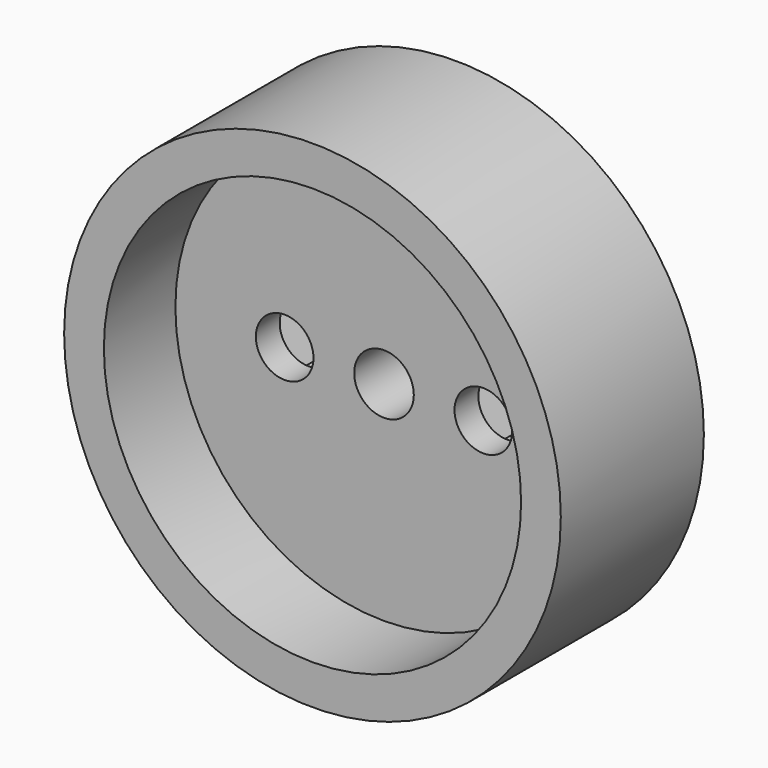
from build123d import *

# Parameters (mm, degrees)
F0_R     = 10.5
F0_R_2   = 1.5
F1_DEPTH = 4.5
F0_R_3   = 12.5
F2_DEPTH = 9
F4_DEPTH = 4.5
F3_R     = 1.45
F5_DEPTH = 4.5
F6_DEPTH = 3


with BuildPart() as f1:
    # F0 (on Front) → F1 (new body)
    with BuildSketch(Plane.XZ):
        Circle(F0_R)
        Circle(F0_R_2, mode=Mode.SUBTRACT)
    extrude(amount=F1_DEPTH)

    # F0 (on Front) → F2 (join)
    with BuildSketch(Plane.XZ):
        Circle(F0_R_3)
        Circle(F0_R, mode=Mode.SUBTRACT)
    extrude(amount=F2_DEPTH)

    # F3 (on face) → F4 (cut)
    with BuildSketch(Plane(origin=(0, 0, 0), x_dir=(-1, 0, 0), z_dir=(0, 1, 0))):
        with BuildLine():
            ThreePointArc((6.45, 0), (5, 1.45), (3.55, 0))
            ThreePointArc((3.55, 0), (5, -1.45), (6.45, 0))
        make_face()
    extrude(amount=-F4_DEPTH, mode=Mode.SUBTRACT)

    # F3 (on face) → F5 (cut)
    with BuildSketch(Plane(origin=(0, 0, 0), x_dir=(-1, 0, 0), z_dir=(0, 1, 0))):
        with Locations((-5, 0)):
            Circle(F3_R)
    extrude(amount=-F5_DEPTH, mode=Mode.SUBTRACT)

    # F3 (on face) → F6 (cut)
    with BuildSketch(Plane(origin=(0, 0, 0), x_dir=(-1, 0, 0), z_dir=(0, 1, 0))):
        Polygon((-1.975, 0), (-3.4875, 2.619727), (-6.5125, 2.619727), (-8.025, 0), (-6.5125, -2.619727), (-3.4875, -2.619727), align=None)
        with Locations((-5, 0)):
            Circle(F3_R, mode=Mode.SUBTRACT)
        Polygon((3.4875, 2.619727), (1.975, 0), (3.4875, -2.619727), (6.5125, -2.619727), (8.025, 0), (6.5125, 2.619727), align=None)
        with BuildLine():
            ThreePointArc((6.45, 0), (5, -1.45), (3.55, 0))
            ThreePointArc((3.55, 0), (5, 1.45), (6.45, 0))
        make_face(mode=Mode.SUBTRACT)
    extrude(amount=-F6_DEPTH, mode=Mode.SUBTRACT)


solid = f1.part
